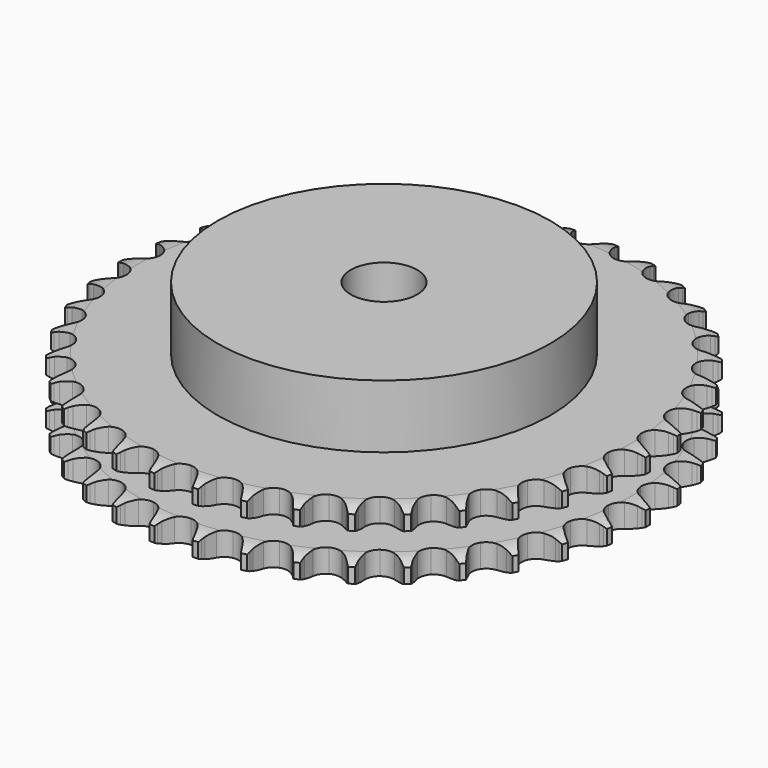
from build123d import *

# Parameters (mm, degrees)
PAD_DEPTH         = 21
SKETCH001_R       = 50
PAD001_DEPTH      = 40
SKETCH002_R       = 10
POCKET_DEPTH      = 0.001
POCKET_DEPTH_BACK = 40.001


with BuildPart() as part:
    # Sprocket → Pad (new body)
    with BuildSketch(Plane.XY):
        with BuildLine():
            ThreePointArc((-6.664627, 80.430092), (-5.93192, 79.411092), (-5.39606, 78.276157))
            Line((-5.39606, 78.276157), (-4.981042, 77.139156))
            ThreePointArc((-4.981042, 77.139156), (-4.324473, 75.677146), (-3.464601, 74.324677))
            ThreePointArc((-3.464601, 74.324677), (-1.939239, 73.041758), (0, 72.581366))
            ThreePointArc((0, 72.581366), (1.939239, 73.041758), (3.464601, 74.324677))
            ThreePointArc((3.464601, 74.324677), (4.324473, 75.677146), (4.981042, 77.139156))
            Line((4.981042, 77.139156), (5.39606, 78.276157))
            ThreePointArc((5.39606, 78.276157), (5.93192, 79.411092), (6.664627, 80.430092))
            ThreePointArc((6.664627, 80.430092), (7.21962, 79.30439), (7.561367, 78.096734))
            Line((7.561367, 78.096734), (7.78358, 76.906931))
            ThreePointArc((7.78358, 76.906931), (8.190556, 75.356794), (8.816092, 73.881239))
            ThreePointArc((8.816092, 73.881239), (10.109488, 72.364752), (11.9465, 71.591451))
            ThreePointArc((11.9465, 71.591451), (13.935068, 71.726376), (15.650788, 72.74073))
            Line((15.650788, 72.74073), (17.609795, 75.267226))
            ThreePointArc((17.609795, 75.267226), (17.893709, 75.801938), (18.206297, 76.32041))
            ThreePointArc((18.206297, 76.32041), (18.921652, 77.351666), (19.812089, 78.236169))
            ThreePointArc((19.812089, 78.236169), (20.174227, 77.034471), (20.31254, 75.787037))
            Line((20.31254, 75.787037), (20.335887, 74.576886))
            ThreePointArc((20.335887, 74.576886), (20.482168, 72.980904), (20.856304, 71.422515))
            ThreePointArc((20.856304, 71.422515), (21.882455, 69.713824), (23.567131, 68.648708))
            ThreePointArc((23.567131, 68.648708), (25.550786, 68.454485), (27.410062, 69.172607))
            Line((27.410062, 69.172607), (29.758199, 71.342202))
            ThreePointArc((29.758199, 71.342202), (30.126251, 71.822891), (30.519913, 72.282841))
            ThreePointArc((30.519913, 72.282841), (31.395252, 73.182288), (32.419128, 73.908167))
            ThreePointArc((32.419128, 73.908167), (32.578534, 72.663252), (32.50964, 71.410066))
            Line((32.50964, 71.410066), (32.333484, 70.212577))
            ThreePointArc((32.333484, 70.212577), (32.21508, 68.614286), (32.327611, 67.01557))
            ThreePointArc((32.327611, 67.01557), (33.058525, 65.161285), (34.544912, 63.833407))
            ThreePointArc((34.544912, 63.833407), (36.469544, 63.315334), (38.421661, 63.717635))
            Line((38.421661, 63.717635), (41.094876, 65.471149))
            ThreePointArc((41.094876, 65.471149), (41.537028, 65.884702), (42.001026, 66.273585))
            ThreePointArc((42.001026, 66.273585), (43.01247, 67.016689), (44.141858, 67.564143))
            ThreePointArc((44.141858, 67.564143), (44.094184, 66.30997), (43.819961, 65.085215))
            Line((43.819961, 65.085215), (43.449108, 63.933053))
            ThreePointArc((43.449108, 63.933053), (43.069248, 62.376048), (42.917105, 60.780615))
            ThreePointArc((42.917105, 60.780615), (43.332845, 58.831316), (44.580398, 57.276897))
            ThreePointArc((44.580398, 57.276897), (46.393508, 56.449105), (48.385218, 56.524611))
            Line((48.385218, 56.524611), (51.310593, 57.814214))
            ThreePointArc((51.310593, 57.814214), (51.814782, 58.149351), (52.33646, 58.456558))
            ThreePointArc((52.33646, 58.456558), (53.45642, 59.023049), (54.660513, 59.377145))
            ThreePointArc((54.660513, 59.377145), (54.407059, 58.147924), (53.934988, 56.985009))
            Line((53.934988, 56.985009), (53.379554, 55.909601))
            ThreePointArc((53.379554, 55.909601), (52.7486, 54.436355), (52.335932, 52.887723))
            ThreePointArc((52.335932, 52.887723), (52.425158, 50.896581), (53.399847, 49.158022))
            ThreePointArc((53.399847, 49.158022), (55.051979, 48.043093), (57.028952, 47.789744))
            Line((57.028952, 47.789744), (60.12669, 48.580257))
            ThreePointArc((60.12669, 48.580257), (60.679165, 48.827837), (61.244292, 49.044988))
            ThreePointArc((61.244292, 49.044988), (62.442219, 49.419413), (63.688171, 49.570493))
            ThreePointArc((63.688171, 49.570493), (63.235851, 48.399755), (62.57881, 47.3304))
            Line((62.57881, 47.3304), (61.853944, 46.361081))
            ThreePointArc((61.853944, 46.361081), (60.989107, 45.01178), (60.327171, 43.552192))
            ThreePointArc((60.327171, 43.552192), (60.087449, 41.573521), (60.762687, 39.698245))
            ThreePointArc((60.762687, 39.698245), (62.208775, 38.32659), (64.117085, 37.751298))
            Line((64.117085, 37.751298), (67.302688, 38.021158))
            ThreePointArc((67.302688, 38.021158), (67.888378, 38.174426), (68.48154, 38.295599))
            ThreePointArc((68.48154, 38.295599), (69.724757, 38.467746), (70.978583, 38.411688))
            ThreePointArc((70.978583, 38.411688), (70.339734, 37.331366), (69.515644, 36.384742))
            Line((69.515644, 36.384742), (68.64112, 35.547952))
            ThreePointArc((68.64112, 35.547952), (67.565991, 34.359401), (66.672842, 33.028671))
            ThreePointArc((66.672842, 33.028671), (66.110711, 31.116443), (66.468079, 29.155603))
            ThreePointArc((66.468079, 29.155603), (67.668677, 27.564637), (69.456271, 26.683094))
            Line((69.456271, 26.683094), (72.642844, 26.42494))
            ThreePointArc((72.642844, 26.42494), (73.245773, 26.479717), (73.850789, 26.501606))
            ThreePointArc((73.850789, 26.501606), (75.105385, 26.466778), (76.332883, 26.205112))
            ThreePointArc((76.332883, 26.205112), (75.524933, 25.244675), (74.556273, 24.446602))
            Line((74.556273, 24.446602), (73.555945, 23.765167))
            ThreePointArc((73.555945, 23.765167), (72.29985, 22.769787), (71.199852, 21.604214))
            ThreePointArc((71.199852, 21.604214), (70.330645, 19.81059), (70.360396, 17.817672))
            ThreePointArc((70.360396, 17.817672), (71.282755, 16.050793), (72.90087, 14.887045))
            Line((72.90087, 14.887045), (76.001492, 14.10792))
            ThreePointArc((76.001492, 14.10792), (76.605214, 14.06271), (77.205582, 13.984719))
            ThreePointArc((77.205582, 13.984719), (78.437334, 13.743866), (79.605022, 13.283729))
            ThreePointArc((79.605022, 13.283729), (78.650008, 12.469375), (77.563201, 11.841624))
            Line((77.563201, 11.841624), (76.464356, 11.334131))
            ThreePointArc((76.464356, 11.334131), (75.061558, 10.559072), (73.784716, 9.59045))
            ThreePointArc((73.784716, 9.59045), (72.632143, 7.964356), (72.333464, 5.993722))
            ThreePointArc((72.333464, 5.993722), (72.952425, 4.099125), (74.356925, 2.684916))
            Line((74.356925, 2.684916), (77.287018, 1.406071))
            ThreePointArc((77.287018, 1.406071), (77.875065, 1.262109), (78.454407, 1.086364))
            ThreePointArc((78.454407, 1.086364), (79.629716, 0.646056), (80.705743, 0))
            ThreePointArc((80.705743, 0), (79.629716, -0.646056), (78.454407, -1.086364))
            Line((78.454407, -1.086364), (77.287018, -1.406071))
            ThreePointArc((77.287018, -1.406071), (75.775783, -1.939666), (74.356925, -2.684916))
            ThreePointArc((74.356925, -2.684916), (72.952425, -4.099125), (72.333464, -5.993722))
            ThreePointArc((72.333464, -5.993722), (72.632143, -7.964356), (73.784716, -9.59045))
            Line((73.784716, -9.59045), (76.464356, -11.334131))
            ThreePointArc((76.464356, -11.334131), (77.020687, -11.572918), (77.563201, -11.841624))
            ThreePointArc((77.563201, -11.841624), (78.650008, -12.469375), (79.605022, -13.283729))
            ThreePointArc((79.605022, -13.283729), (78.437334, -13.743866), (77.205582, -13.984719))
            Line((77.205582, -13.984719), (76.001492, -14.10792))
            ThreePointArc((76.001492, -14.10792), (74.423041, -14.385496), (72.90087, -14.887045))
            ThreePointArc((72.90087, -14.887045), (71.282755, -16.050793), (70.360396, -17.817672))
            ThreePointArc((70.360396, -17.817672), (70.330645, -19.81059), (71.199852, -21.604214))
            Line((71.199852, -21.604214), (73.555945, -23.765167))
            ThreePointArc((73.555945, -23.765167), (74.065385, -24.092267), (74.556273, -24.446602))
            ThreePointArc((74.556273, -24.446602), (75.524933, -25.244675), (76.332883, -26.205112))
            ThreePointArc((76.332883, -26.205112), (75.105385, -26.466778), (73.850789, -26.501606))
            Line((73.850789, -26.501606), (72.642844, -26.42494))
            ThreePointArc((72.642844, -26.42494), (71.040233, -26.438926), (69.456271, -26.683094))
            ThreePointArc((69.456271, -26.683094), (67.668677, -27.564637), (66.468079, -29.155603))
            ThreePointArc((66.468079, -29.155603), (66.110711, -31.116443), (66.672842, -33.028671))
            Line((66.672842, -33.028671), (68.64112, -35.547952))
            ThreePointArc((68.64112, -35.547952), (69.089773, -35.954442), (69.515644, -36.384742))
            ThreePointArc((69.515644, -36.384742), (70.339734, -37.331366), (70.978583, -38.411688))
            ThreePointArc((70.978583, -38.411688), (69.724757, -38.467746), (68.48154, -38.295599))
            Line((68.48154, -38.295599), (67.302688, -38.021158))
            ThreePointArc((67.302688, -38.021158), (65.719633, -37.771172), (64.117085, -37.751298))
            ThreePointArc((64.117085, -37.751298), (62.208775, -38.32659), (60.762687, -39.698245))
            ThreePointArc((60.762687, -39.698245), (60.087449, -41.573521), (60.327171, -43.552192))
            Line((60.327171, -43.552192), (61.853944, -46.361081))
            ThreePointArc((61.853944, -46.361081), (62.229572, -46.835873), (62.57881, -47.3304))
            ThreePointArc((62.57881, -47.3304), (63.235851, -48.399755), (63.688171, -49.570493))
            ThreePointArc((63.688171, -49.570493), (62.442219, -49.419413), (61.244292, -49.044988))
            Line((61.244292, -49.044988), (60.12669, -48.580257))
            ThreePointArc((60.12669, -48.580257), (58.606372, -48.073118), (57.028952, -47.789744))
            ThreePointArc((57.028952, -47.789744), (55.051979, -48.043093), (53.399847, -49.158022))
            ThreePointArc((53.399847, -49.158022), (52.425158, -50.896581), (52.335932, -52.887723))
            Line((52.335932, -52.887723), (53.379554, -55.909601))
            ThreePointArc((53.379554, -55.909601), (53.67191, -56.439744), (53.934988, -56.985009))
            ThreePointArc((53.934988, -56.985009), (54.407059, -58.147924), (54.660513, -59.377145))
            ThreePointArc((54.660513, -59.377145), (53.45642, -59.023049), (52.33646, -58.456558))
            Line((52.33646, -58.456558), (51.310593, -57.814214))
            ThreePointArc((51.310593, -57.814214), (49.894483, -57.063755), (48.385218, -56.524611))
            ThreePointArc((48.385218, -56.524611), (46.393508, -56.449105), (44.580398, -57.276897))
            ThreePointArc((44.580398, -57.276897), (43.332845, -58.831316), (42.917105, -60.780615))
            Line((42.917105, -60.780615), (43.449108, -63.933053))
            ThreePointArc((43.449108, -63.933053), (43.650219, -64.504085), (43.819961, -65.085215))
            ThreePointArc((43.819961, -65.085215), (44.094184, -66.30997), (44.141858, -67.564143))
            ThreePointArc((44.141858, -67.564143), (43.01247, -67.016689), (42.001026, -66.273585))
            Line((42.001026, -66.273585), (41.094876, -65.471149))
            ThreePointArc((41.094876, -65.471149), (39.821601, -64.497842), (38.421661, -63.717635))
            ThreePointArc((38.421661, -63.717635), (36.469544, -63.315334), (34.544912, -63.833407))
            ThreePointArc((34.544912, -63.833407), (33.058525, -65.161285), (32.327611, -67.01557))
            Line((32.327611, -67.01557), (32.333484, -70.212577))
            ThreePointArc((32.333484, -70.212577), (32.437863, -70.808924), (32.50964, -71.410066))
            ThreePointArc((32.50964, -71.410066), (32.578534, -72.663252), (32.419128, -73.908167))
            ThreePointArc((32.419128, -73.908167), (31.395252, -73.182288), (30.519913, -72.282841))
            Line((30.519913, -72.282841), (29.758199, -71.342202))
            ThreePointArc((29.758199, -71.342202), (28.662491, -70.172596), (27.410062, -69.172607))
            ThreePointArc((27.410062, -69.172607), (25.550786, -68.454485), (23.567131, -68.648708))
            ThreePointArc((23.567131, -68.648708), (21.882455, -69.713824), (20.856304, -71.422515))
            Line((20.856304, -71.422515), (20.335887, -74.576886))
            ThreePointArc((20.335887, -74.576886), (20.340687, -75.182279), (20.31254, -75.787037))
            ThreePointArc((20.31254, -75.787037), (20.174227, -77.034471), (19.812089, -78.236169))
            ThreePointArc((19.812089, -78.236169), (18.921652, -77.351666), (18.206297, -76.32041))
            Line((18.206297, -76.32041), (17.609795, -75.267226))
            ThreePointArc((17.609795, -75.267226), (16.721542, -73.933224), (15.650788, -72.74073))
            ThreePointArc((15.650788, -72.74073), (13.935068, -71.726376), (11.9465, -71.591451))
            ThreePointArc((11.9465, -71.591451), (10.109488, -72.364752), (8.816092, -73.881239))
            Line((8.816092, -73.881239), (7.78358, -76.906931))
            ThreePointArc((7.78358, -76.906931), (7.688671, -77.504858), (7.561367, -78.096734))
            ThreePointArc((7.561367, -78.096734), (7.21962, -79.30439), (6.664627, -80.430092))
            ThreePointArc((6.664627, -80.430092), (5.93192, -79.411092), (5.39606, -78.276157))
            Line((5.39606, -78.276157), (4.981042, -77.139156))
            ThreePointArc((4.981042, -77.139156), (4.324473, -75.677146), (3.464601, -74.324677))
            ThreePointArc((3.464601, -74.324677), (1.939239, -73.041758), (0, -72.581366))
            ThreePointArc((0, -72.581366), (-1.939239, -73.041758), (-3.464601, -74.324677))
            Line((-3.464601, -74.324677), (-4.981042, -77.139156))
            ThreePointArc((-4.981042, -77.139156), (-5.173073, -77.713306), (-5.39606, -78.276157))
            ThreePointArc((-5.39606, -78.276157), (-5.93192, -79.411092), (-6.664627, -80.430092))
            ThreePointArc((-6.664627, -80.430092), (-7.21962, -79.30439), (-7.561367, -78.096734))
            Line((-7.561367, -78.096734), (-7.78358, -76.906931))
            ThreePointArc((-7.78358, -76.906931), (-8.190556, -75.356794), (-8.816092, -73.881239))
            ThreePointArc((-8.816092, -73.881239), (-10.109488, -72.364752), (-11.9465, -71.591451))
            ThreePointArc((-11.9465, -71.591451), (-13.935068, -71.726376), (-15.650788, -72.74073))
            Line((-15.650788, -72.74073), (-17.609795, -75.267226))
            ThreePointArc((-17.609795, -75.267226), (-17.893709, -75.801938), (-18.206297, -76.32041))
            ThreePointArc((-18.206297, -76.32041), (-18.921652, -77.351666), (-19.812089, -78.236169))
            ThreePointArc((-19.812089, -78.236169), (-20.174227, -77.034471), (-20.31254, -75.787037))
            Line((-20.31254, -75.787037), (-20.335887, -74.576886))
            ThreePointArc((-20.335887, -74.576886), (-20.482168, -72.980904), (-20.856304, -71.422515))
            ThreePointArc((-20.856304, -71.422515), (-21.882455, -69.713824), (-23.567131, -68.648708))
            ThreePointArc((-23.567131, -68.648708), (-25.550786, -68.454485), (-27.410062, -69.172607))
            Line((-27.410062, -69.172607), (-29.758199, -71.342202))
            ThreePointArc((-29.758199, -71.342202), (-30.126251, -71.822891), (-30.519913, -72.282841))
            ThreePointArc((-30.519913, -72.282841), (-31.395252, -73.182288), (-32.419128, -73.908167))
            ThreePointArc((-32.419128, -73.908167), (-32.578534, -72.663252), (-32.50964, -71.410066))
            Line((-32.50964, -71.410066), (-32.333484, -70.212577))
            ThreePointArc((-32.333484, -70.212577), (-32.21508, -68.614286), (-32.327611, -67.01557))
            ThreePointArc((-32.327611, -67.01557), (-33.058525, -65.161285), (-34.544912, -63.833407))
            ThreePointArc((-34.544912, -63.833407), (-36.469544, -63.315334), (-38.421661, -63.717635))
            Line((-38.421661, -63.717635), (-41.094876, -65.471149))
            ThreePointArc((-41.094876, -65.471149), (-41.537028, -65.884702), (-42.001026, -66.273585))
            ThreePointArc((-42.001026, -66.273585), (-43.01247, -67.016689), (-44.141858, -67.564143))
            ThreePointArc((-44.141858, -67.564143), (-44.094184, -66.30997), (-43.819961, -65.085215))
            Line((-43.819961, -65.085215), (-43.449108, -63.933053))
            ThreePointArc((-43.449108, -63.933053), (-43.069248, -62.376048), (-42.917105, -60.780615))
            ThreePointArc((-42.917105, -60.780615), (-43.332845, -58.831316), (-44.580398, -57.276897))
            ThreePointArc((-44.580398, -57.276897), (-46.393508, -56.449105), (-48.385218, -56.524611))
            Line((-48.385218, -56.524611), (-51.310593, -57.814214))
            ThreePointArc((-51.310593, -57.814214), (-51.814782, -58.149351), (-52.33646, -58.456558))
            ThreePointArc((-52.33646, -58.456558), (-53.45642, -59.023049), (-54.660513, -59.377145))
            ThreePointArc((-54.660513, -59.377145), (-54.407059, -58.147924), (-53.934988, -56.985009))
            Line((-53.934988, -56.985009), (-53.379554, -55.909601))
            ThreePointArc((-53.379554, -55.909601), (-52.7486, -54.436355), (-52.335932, -52.887723))
            ThreePointArc((-52.335932, -52.887723), (-52.425158, -50.896581), (-53.399847, -49.158022))
            ThreePointArc((-53.399847, -49.158022), (-55.051979, -48.043093), (-57.028952, -47.789744))
            Line((-57.028952, -47.789744), (-60.12669, -48.580257))
            ThreePointArc((-60.12669, -48.580257), (-60.679165, -48.827837), (-61.244292, -49.044988))
            ThreePointArc((-61.244292, -49.044988), (-62.442219, -49.419413), (-63.688171, -49.570493))
            ThreePointArc((-63.688171, -49.570493), (-63.235851, -48.399755), (-62.57881, -47.3304))
            Line((-62.57881, -47.3304), (-61.853944, -46.361081))
            ThreePointArc((-61.853944, -46.361081), (-60.989107, -45.01178), (-60.327171, -43.552192))
            ThreePointArc((-60.327171, -43.552192), (-60.087449, -41.573521), (-60.762687, -39.698245))
            ThreePointArc((-60.762687, -39.698245), (-62.208775, -38.32659), (-64.117085, -37.751298))
            Line((-64.117085, -37.751298), (-67.302688, -38.021158))
            ThreePointArc((-67.302688, -38.021158), (-67.888378, -38.174426), (-68.48154, -38.295599))
            ThreePointArc((-68.48154, -38.295599), (-69.724757, -38.467746), (-70.978583, -38.411688))
            ThreePointArc((-70.978583, -38.411688), (-70.339734, -37.331366), (-69.515644, -36.384742))
            Line((-69.515644, -36.384742), (-68.64112, -35.547952))
            ThreePointArc((-68.64112, -35.547952), (-67.565991, -34.359401), (-66.672842, -33.028671))
            ThreePointArc((-66.672842, -33.028671), (-66.110711, -31.116443), (-66.468079, -29.155603))
            ThreePointArc((-66.468079, -29.155603), (-67.668677, -27.564637), (-69.456271, -26.683094))
            Line((-69.456271, -26.683094), (-72.642844, -26.42494))
            ThreePointArc((-72.642844, -26.42494), (-73.245773, -26.479717), (-73.850789, -26.501606))
            ThreePointArc((-73.850789, -26.501606), (-75.105385, -26.466778), (-76.332883, -26.205112))
            ThreePointArc((-76.332883, -26.205112), (-75.524933, -25.244675), (-74.556273, -24.446602))
            Line((-74.556273, -24.446602), (-73.555945, -23.765167))
            ThreePointArc((-73.555945, -23.765167), (-72.29985, -22.769787), (-71.199852, -21.604214))
            ThreePointArc((-71.199852, -21.604214), (-70.330645, -19.81059), (-70.360396, -17.817672))
            ThreePointArc((-70.360396, -17.817672), (-71.282755, -16.050793), (-72.90087, -14.887045))
            Line((-72.90087, -14.887045), (-76.001492, -14.10792))
            ThreePointArc((-76.001492, -14.10792), (-76.605214, -14.06271), (-77.205582, -13.984719))
            ThreePointArc((-77.205582, -13.984719), (-78.437334, -13.743866), (-79.605022, -13.283729))
            ThreePointArc((-79.605022, -13.283729), (-78.650008, -12.469375), (-77.563201, -11.841624))
            Line((-77.563201, -11.841624), (-76.464356, -11.334131))
            ThreePointArc((-76.464356, -11.334131), (-75.061558, -10.559072), (-73.784716, -9.59045))
            ThreePointArc((-73.784716, -9.59045), (-72.632143, -7.964356), (-72.333464, -5.993722))
            ThreePointArc((-72.333464, -5.993722), (-72.952425, -4.099125), (-74.356925, -2.684916))
            Line((-74.356925, -2.684916), (-77.287018, -1.406071))
            ThreePointArc((-77.287018, -1.406071), (-77.875065, -1.262109), (-78.454407, -1.086364))
            ThreePointArc((-78.454407, -1.086364), (-79.629716, -0.646056), (-80.705743, 0))
            ThreePointArc((-80.705743, 0), (-79.629716, 0.646056), (-78.454407, 1.086364))
            Line((-78.454407, 1.086364), (-77.287018, 1.406071))
            ThreePointArc((-77.287018, 1.406071), (-75.775783, 1.939666), (-74.356925, 2.684916))
            ThreePointArc((-74.356925, 2.684916), (-72.952425, 4.099125), (-72.333464, 5.993722))
            ThreePointArc((-72.333464, 5.993722), (-72.632143, 7.964356), (-73.784716, 9.59045))
            Line((-73.784716, 9.59045), (-76.464356, 11.334131))
            ThreePointArc((-76.464356, 11.334131), (-77.020687, 11.572918), (-77.563201, 11.841624))
            ThreePointArc((-77.563201, 11.841624), (-78.650008, 12.469375), (-79.605022, 13.283729))
            ThreePointArc((-79.605022, 13.283729), (-78.437334, 13.743866), (-77.205582, 13.984719))
            Line((-77.205582, 13.984719), (-76.001492, 14.10792))
            ThreePointArc((-76.001492, 14.10792), (-74.423041, 14.385496), (-72.90087, 14.887045))
            ThreePointArc((-72.90087, 14.887045), (-71.282755, 16.050793), (-70.360396, 17.817672))
            ThreePointArc((-70.360396, 17.817672), (-70.330645, 19.81059), (-71.199852, 21.604214))
            Line((-71.199852, 21.604214), (-73.555945, 23.765167))
            ThreePointArc((-73.555945, 23.765167), (-74.065385, 24.092267), (-74.556273, 24.446602))
            ThreePointArc((-74.556273, 24.446602), (-75.524933, 25.244675), (-76.332883, 26.205112))
            ThreePointArc((-76.332883, 26.205112), (-75.105385, 26.466778), (-73.850789, 26.501606))
            Line((-73.850789, 26.501606), (-72.642844, 26.42494))
            ThreePointArc((-72.642844, 26.42494), (-71.040233, 26.438926), (-69.456271, 26.683094))
            ThreePointArc((-69.456271, 26.683094), (-67.668677, 27.564637), (-66.468079, 29.155603))
            ThreePointArc((-66.468079, 29.155603), (-66.110711, 31.116443), (-66.672842, 33.028671))
            Line((-66.672842, 33.028671), (-68.64112, 35.547952))
            ThreePointArc((-68.64112, 35.547952), (-69.089773, 35.954442), (-69.515644, 36.384742))
            ThreePointArc((-69.515644, 36.384742), (-70.339734, 37.331366), (-70.978583, 38.411688))
            ThreePointArc((-70.978583, 38.411688), (-69.724757, 38.467746), (-68.48154, 38.295599))
            Line((-68.48154, 38.295599), (-67.302688, 38.021158))
            ThreePointArc((-67.302688, 38.021158), (-65.719633, 37.771172), (-64.117085, 37.751298))
            ThreePointArc((-64.117085, 37.751298), (-62.208775, 38.32659), (-60.762687, 39.698245))
            ThreePointArc((-60.762687, 39.698245), (-60.087449, 41.573521), (-60.327171, 43.552192))
            Line((-60.327171, 43.552192), (-61.853944, 46.361081))
            ThreePointArc((-61.853944, 46.361081), (-62.229572, 46.835873), (-62.57881, 47.3304))
            ThreePointArc((-62.57881, 47.3304), (-63.235851, 48.399755), (-63.688171, 49.570493))
            ThreePointArc((-63.688171, 49.570493), (-62.442219, 49.419413), (-61.244292, 49.044988))
            Line((-61.244292, 49.044988), (-60.12669, 48.580257))
            ThreePointArc((-60.12669, 48.580257), (-58.606372, 48.073118), (-57.028952, 47.789744))
            ThreePointArc((-57.028952, 47.789744), (-55.051979, 48.043093), (-53.399847, 49.158022))
            ThreePointArc((-53.399847, 49.158022), (-52.425158, 50.896581), (-52.335932, 52.887723))
            Line((-52.335932, 52.887723), (-53.379554, 55.909601))
            ThreePointArc((-53.379554, 55.909601), (-53.67191, 56.439744), (-53.934988, 56.985009))
            ThreePointArc((-53.934988, 56.985009), (-54.407059, 58.147924), (-54.660513, 59.377145))
            ThreePointArc((-54.660513, 59.377145), (-53.45642, 59.023049), (-52.33646, 58.456558))
            Line((-52.33646, 58.456558), (-51.310593, 57.814214))
            ThreePointArc((-51.310593, 57.814214), (-49.894483, 57.063755), (-48.385218, 56.524611))
            ThreePointArc((-48.385218, 56.524611), (-46.393508, 56.449105), (-44.580398, 57.276897))
            ThreePointArc((-44.580398, 57.276897), (-43.332845, 58.831316), (-42.917105, 60.780615))
            Line((-42.917105, 60.780615), (-43.449108, 63.933053))
            ThreePointArc((-43.449108, 63.933053), (-43.650219, 64.504085), (-43.819961, 65.085215))
            ThreePointArc((-43.819961, 65.085215), (-44.094184, 66.30997), (-44.141858, 67.564143))
            ThreePointArc((-44.141858, 67.564143), (-43.01247, 67.016689), (-42.001026, 66.273585))
            Line((-42.001026, 66.273585), (-41.094876, 65.471149))
            ThreePointArc((-41.094876, 65.471149), (-39.821601, 64.497842), (-38.421661, 63.717635))
            ThreePointArc((-38.421661, 63.717635), (-36.469544, 63.315334), (-34.544912, 63.833407))
            ThreePointArc((-34.544912, 63.833407), (-33.058525, 65.161285), (-32.327611, 67.01557))
            Line((-32.327611, 67.01557), (-32.333484, 70.212577))
            ThreePointArc((-32.333484, 70.212577), (-32.437863, 70.808924), (-32.50964, 71.410066))
            ThreePointArc((-32.50964, 71.410066), (-32.578534, 72.663252), (-32.419128, 73.908167))
            ThreePointArc((-32.419128, 73.908167), (-31.395252, 73.182288), (-30.519913, 72.282841))
            Line((-30.519913, 72.282841), (-29.758199, 71.342202))
            ThreePointArc((-29.758199, 71.342202), (-28.662491, 70.172596), (-27.410062, 69.172607))
            ThreePointArc((-27.410062, 69.172607), (-25.550786, 68.454485), (-23.567131, 68.648708))
            ThreePointArc((-23.567131, 68.648708), (-21.882455, 69.713824), (-20.856304, 71.422515))
            Line((-20.856304, 71.422515), (-20.335887, 74.576886))
            ThreePointArc((-20.335887, 74.576886), (-20.340687, 75.182279), (-20.31254, 75.787037))
            ThreePointArc((-20.31254, 75.787037), (-20.174227, 77.034471), (-19.812089, 78.236169))
            ThreePointArc((-19.812089, 78.236169), (-18.921652, 77.351666), (-18.206297, 76.32041))
            Line((-18.206297, 76.32041), (-17.609795, 75.267226))
            ThreePointArc((-17.609795, 75.267226), (-16.721542, 73.933224), (-15.650788, 72.74073))
            ThreePointArc((-15.650788, 72.74073), (-13.935068, 71.726376), (-11.9465, 71.591451))
            ThreePointArc((-11.9465, 71.591451), (-10.109488, 72.364752), (-8.816092, 73.881239))
            Line((-8.816092, 73.881239), (-7.78358, 76.906931))
            ThreePointArc((-7.78358, 76.906931), (-7.688671, 77.504858), (-7.561367, 78.096734))
            ThreePointArc((-7.561367, 78.096734), (-7.21962, 79.30439), (-6.664627, 80.430092))
        make_face()
    extrude(amount=PAD_DEPTH)

    # Sketch → Groove (revolve, cut)
    with BuildSketch(Plane.XZ):
        with BuildLine():
            ThreePointArc((73.633431, 0), (76.54032, 0.329167), (79.3, 1.3))
            Line((79.3, 1.3), (79.3, 5.7))
            ThreePointArc((79.3, 5.7), (76.54032, 6.670833), (73.633431, 7))
            Line((50, 7), (73.633431, 7))
            Line((50, 14), (50, 7))
            Line((73.633431, 14), (50, 14))
            ThreePointArc((73.633431, 14), (76.54032, 14.329167), (79.3, 15.3))
            Line((79.3, 15.3), (79.3, 19.7))
            ThreePointArc((79.3, 19.7), (76.54032, 20.670833), (73.633431, 21))
            Line((73.633431, 21), (83.633431, 21))
            Line((83.633431, 21), (83.633431, 0))
            Line((73.633431, 0), (83.633431, 0))
        make_face()
    revolve(axis=Axis((0, 0, 0), (0, 0, 1)), mode=Mode.SUBTRACT)

    # Sketch001 → Pad001 (join)
    with BuildSketch(Plane.XY):
        Circle(SKETCH001_R)
    extrude(amount=PAD001_DEPTH)

    # Sketch002 → Pocket (cut, two sides)
    with BuildSketch(Plane.XY) as pocket_sk:
        Circle(SKETCH002_R)
    extrude(amount=-POCKET_DEPTH, mode=Mode.SUBTRACT)
    extrude(pocket_sk.sketch, amount=POCKET_DEPTH_BACK, mode=Mode.SUBTRACT)


solid = part.part
